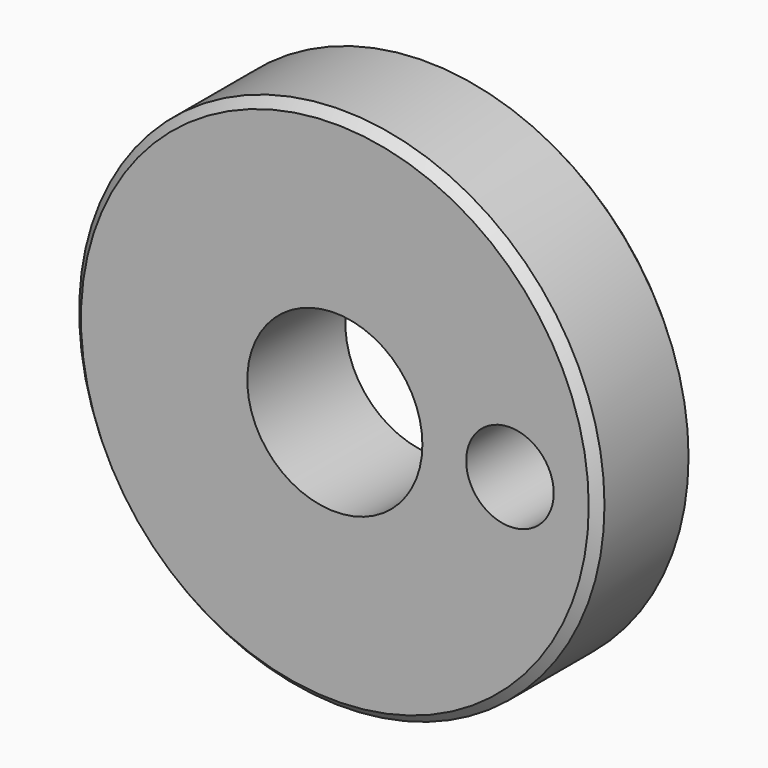
from build123d import *

# Parameters (mm, degrees)
F0_R     = 15
F0_R_2   = 5
F0_R_3   = 2.5
F1_DEPTH = 7
F2_SIZE  = 0.5
F3_SIZE  = 0.5


with BuildPart() as f1:
    # F0 (on Front) → F1 (new body)
    with BuildSketch(Plane.XZ):
        Circle(F0_R)
        Circle(F0_R_2, mode=Mode.SUBTRACT)
        with Locations((10, 0)):
            Circle(F0_R_3, mode=Mode.SUBTRACT)
    extrude(amount=F1_DEPTH)

    # F2
    f2_edges = [f1.edges().sort_by_distance(p)[0] for p in [
        (-15, -7, 0),
    ]]
    chamfer(f2_edges, length=F2_SIZE)

    # F3
    f3_edges = [f1.edges().sort_by_distance(p)[0] for p in [
        (-15, 0, 0),
    ]]
    chamfer(f3_edges, length=F3_SIZE)


solid = f1.part
